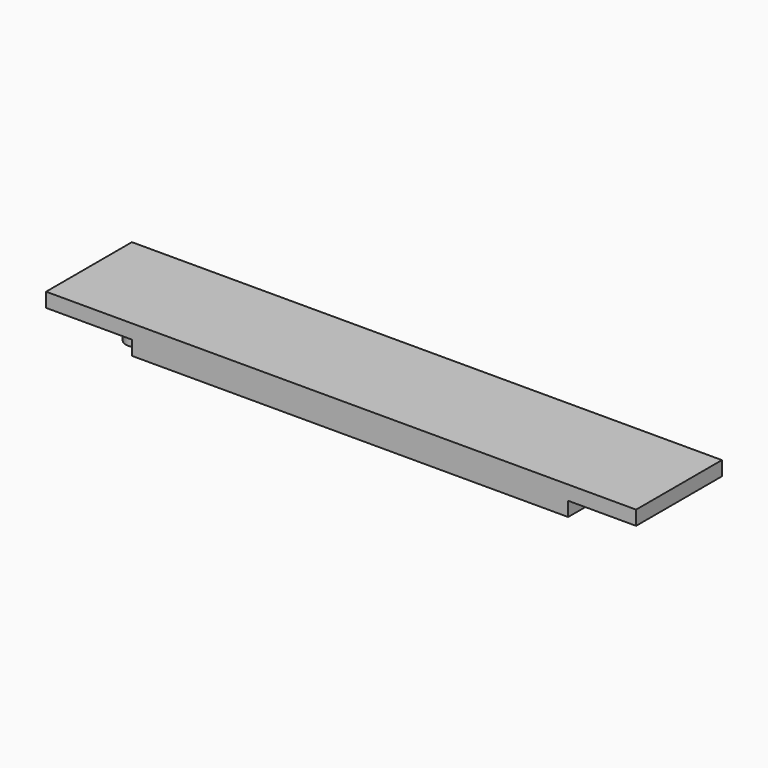
from build123d import *

# Parameters (mm, degrees)
CYLINDER_R     = 1.6
CYLINDER_DEPTH = 10
BOX001_W       = 61
BOX001_H       = 15
BOX001_DEPTH   = 2
BOX_W          = 82.5
BOX_H          = 15
BOX_DEPTH      = 2


with BuildPart() as taladro1:
    # Cylinder → Cylinder (new body)
    with BuildSketch(Plane(origin=(0, 1.2, -10), x_dir=(1, 0, 0), z_dir=(0, 0, 1))):
        Circle(CYLINDER_R)
    extrude(amount=CYLINDER_DEPTH)


with BuildPart() as perfora_2mm_centro:
    # Box001 → Box001 (new body)
    with BuildSketch(Plane(origin=(12, 0, -2), x_dir=(1, 0, 0), z_dir=(0, 0, 1))):
        with Locations((30.5, 7.5)):
            Rectangle(BOX001_W, BOX001_H)
    extrude(amount=BOX001_DEPTH)


with BuildPart() as fusion001:
    # Box → Box (new body)
    with BuildSketch(Plane.XY):
        with Locations((41.25, 7.5)):
            Rectangle(BOX_W, BOX_H)
    extrude(amount=BOX_DEPTH)

    # Fusion: union perfora_2mm_centro
    add(perfora_2mm_centro.part)


with BuildPart() as fusion001_1:
    # Fusion placement: moved
    add(fusion001.part.moved(Location((-3, -11, -2))))

    # Fusion001: union taladro1
    add(taladro1.part)


with BuildPart() as fusion005:
    # Fusion005 base: copy of taladro1
    add(taladro1.part)

    # Fusion005: union Fusion001
    add(fusion001_1.part)


solid = fusion005.part
